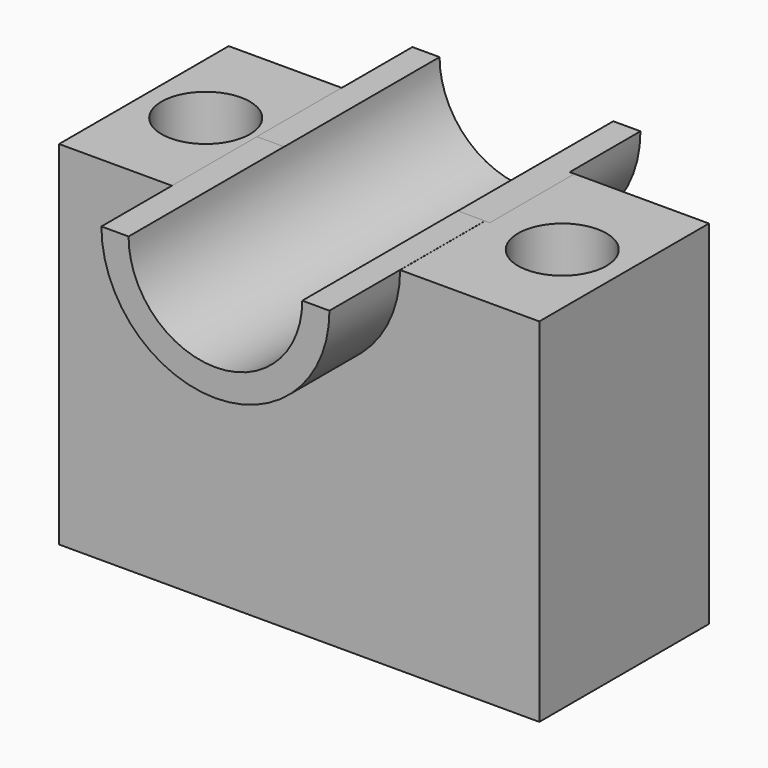
from build123d import *

# Parameters (mm, degrees)
F2_DEPTH  = 30
F1_R      = 32.262952
F1_R_2    = 24.574153
F4_DEPTH  = 55
F6_W      = 65.900745
F6_H      = 33.107504
F7_DEPTH  = 55
F8_W      = 65.835031
F8_H      = 35.700139
F9_DEPTH  = 55
F10_R     = 12.5
F11_DEPTH = 100
F12_R     = 12.5
F13_DEPTH = 100


with BuildPart() as f2:
    # F1 (on face) → F2 (new body)
    with BuildSketch(Plane.XZ):
        with BuildLine():
            Line((68.240136, 49.884874), (28.858346, 49.884874))
            ThreePointArc((28.858346, 49.884874), (-3.404606, 17.621922), (-35.667558, 49.884874))
            Line((-35.667558, 49.884874), (-67.648031, 49.884874))
            Line((-67.648031, 49.884874), (-67.648031, -49.884874))
            Line((-67.648031, -49.884874), (68.240136, -49.884874))
            Line((68.240136, -49.884874), (68.240136, 49.884874))
        make_face()
    extrude(amount=F2_DEPTH)

    # F3: F2 across face


with BuildPart() as f2_1:
    add(f2.part)
    add(f2.part.mirror(Plane(origin=(0.803557, 0, -4.963344), x_dir=(1, 0, 0), z_dir=(0, 1, 0))))

    # F1 (on face) → F4 (join)
    with BuildSketch(Plane.XZ):
        with Locations((-3.404606, 49.884874)):
            Circle(F1_R)
        with Locations((-3.404606, 49.884874)):
            Circle(F1_R_2, mode=Mode.SUBTRACT)
    extrude(amount=F4_DEPTH)

    # F5: F2 across face


with BuildPart() as f2_2:
    add(f2_1.part)
    add(f2_1.part.mirror(Plane(origin=(-3.404606, 0, 49.884874), x_dir=(1, 0, 0), z_dir=(0, 1, 0))))

    # F6 (on Front) → F7 (cut)
    with BuildSketch(Plane.XZ):
        with Locations((-2.747394, 66.43793)):
            Rectangle(F6_W, F6_H)
    extrude(amount=-F7_DEPTH, mode=Mode.SUBTRACT)

    # F8 (on Front) → F9 (cut)
    with BuildSketch(Plane.XZ):
        with Locations((-3.836475, 67.761236)):
            Rectangle(F8_W, F8_H)
    extrude(amount=F9_DEPTH, mode=Mode.SUBTRACT)

    # F10 (on face) → F11 (cut)
    with BuildSketch(Plane.XY.offset(49.884874)):
        with Locations((-50.148031, 0)):
            Circle(F10_R)
    extrude(amount=-F11_DEPTH, mode=Mode.SUBTRACT)

    # F12 (on face) → F13 (cut)
    with BuildSketch(Plane.XY.offset(49.884874)):
        with Locations((50.740136, 0)):
            Circle(F12_R)
    extrude(amount=-F13_DEPTH, mode=Mode.SUBTRACT)


solid = f2_2.part
